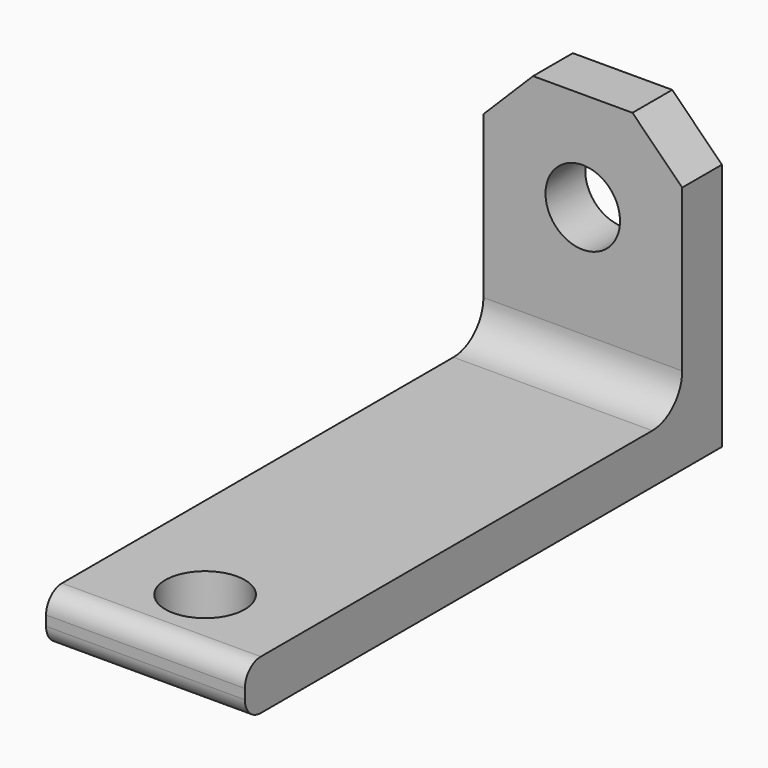
from build123d import *

# Parameters (mm, degrees)
F1_DEPTH = 25.4
F2_R     = 4.7752
F3_R     = 4.7625
F4_DEPTH = 25.4
F5_SIZE  = 6.35
F6_R     = 5.08
F7_DEPTH = 25.4
F8_R     = 2.54


with BuildPart() as f1:
    # F0 (on Right) → F1 (new body)
    with BuildSketch(Plane.YZ):
        Polygon((-76.2, 0), (0, 0), (0, 38.1), (-6.35, 38.1), (-6.35, 6.35), (-76.2, 6.35), align=None)
    extrude(amount=F1_DEPTH)

    # F2
    f2_edges = [f1.edges().sort_by_distance(p)[0] for p in [
        (12.7, -6.35, 6.35),
    ]]
    fillet(f2_edges, radius=F2_R)

    # F3 (on face) → F4 (cut)
    with BuildSketch(Plane(origin=(0, 0, 0), x_dir=(-1, 0, 0), z_dir=(0, 1, 0))):
        with Locations((-12.7, 25.4)):
            Circle(F3_R)
    extrude(amount=-F4_DEPTH, mode=Mode.SUBTRACT)

    # F5
    f5_edges = [f1.edges().sort_by_distance(p)[0] for p in [
        (25.4, -3.175, 38.1),
        (0, -3.175, 38.1),
    ]]
    chamfer(f5_edges, length=F5_SIZE)

    # F6 (on face) → F7 (cut)
    with BuildSketch(Plane(origin=(0, 0, 0), x_dir=(1, 0, 0), z_dir=(0, 0, -1))):
        with Locations((12.7, 66.675)):
            Circle(F6_R)
    extrude(amount=-F7_DEPTH, mode=Mode.SUBTRACT)

    # F8
    f8_edges = [f1.edges().sort_by_distance(p)[0] for p in [
        (12.7, -76.2, 0),
        (12.7, -76.2, 6.35),
    ]]
    fillet(f8_edges, radius=F8_R)


solid = f1.part
